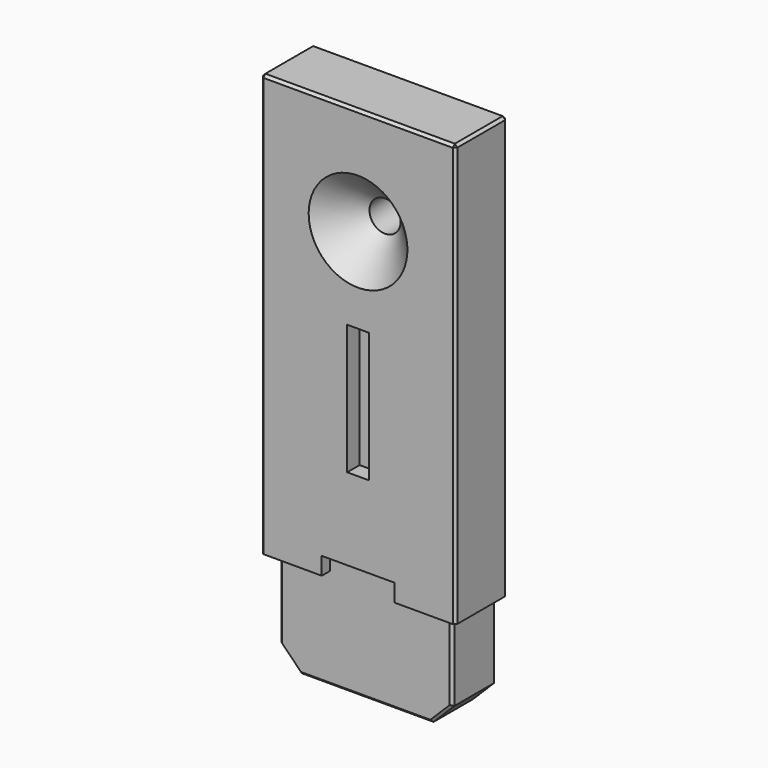
from build123d import *

# Parameters (mm, degrees)
F1_DEPTH       = 3.175
F3_DEPTH       = 2.667
F4_SIZE        = 0.127
F5_D           = 1.524
F5_CSINK_D     = 4.826
F5_CSINK_ANGLE = 90
F6_W           = 1.058334
F6_H           = 6.35
F7_DEPTH       = 0.762


with BuildPart() as f1:
    # F0 (on Front) → F1 (new body)
    with BuildSketch(Plane.XZ):
        Polygon((4.758054, 5.239753), (-4.758054, 5.239753), (-4.758054, -15.383445), (-4.250054, -15.383445), (-1.773554, -15.383445), (-1.773554, -14.527198), (1.773554, -14.527198), (1.773554, -15.383445), (4.201267, -15.383445), (4.758054, -15.383445), align=None)
    extrude(amount=F1_DEPTH)

    # F0 (on Front) → F3 (join)
    with BuildSketch(Plane.XZ):
        Polygon((-1.773554, -15.383445), (-4.250054, -15.383445), (-4.250054, -19.304393), (-3.246823, -20.32), (3.185267, -20.32), (4.201267, -19.304393), (4.201267, -15.383445), (1.773554, -15.383445), (1.773554, -14.527198), (-1.773554, -14.527198), align=None)
    extrude(amount=F3_DEPTH)

    # F4
    f4_edges = [f1.edges().sort_by_distance(p)[0] for p in [
        (0, -3.175, 5.239753),
        (-4.758054, -3.175, -5.071846),
        (-4.758054, -1.5875, 5.239753),
        (-4.758054, 0, -5.071846),
        (4.758054, -3.175, -5.071846),
        (4.758054, 0, -5.071846),
        (4.758054, -1.5875, 5.239753),
        (0, 0, 5.239753),
        (-4.250054, -2.667, -17.343919),
        (4.201267, -2.667, -17.343919),
        (4.201267, 0, -17.343919),
        (-4.250054, 0, -17.343919),
        (3.693267, -2.667, -19.812197),
        (-0.030778, -2.667, -20.32),
        (-3.748439, -2.667, -19.812197),
        (-3.748439, 0, -19.812197),
        (-0.030778, 0, -20.32),
        (3.693267, 0, -19.812197),
    ]]
    chamfer(f4_edges, length=F4_SIZE)

    # F5 (through all)
    with Locations(Plane.XZ.offset(3.175)):
        with Locations((0, 0)):
            CounterSinkHole(F5_D / 2, F5_CSINK_D / 2, counter_sink_angle=F5_CSINK_ANGLE)

    # F6 (on face) → F7 (cut)
    with BuildSketch(Plane.XZ.offset(3.175)):
        with Locations((0, -7.352567)):
            Rectangle(F6_W, F6_H)
    extrude(amount=-F7_DEPTH, mode=Mode.SUBTRACT)


solid = f1.part
